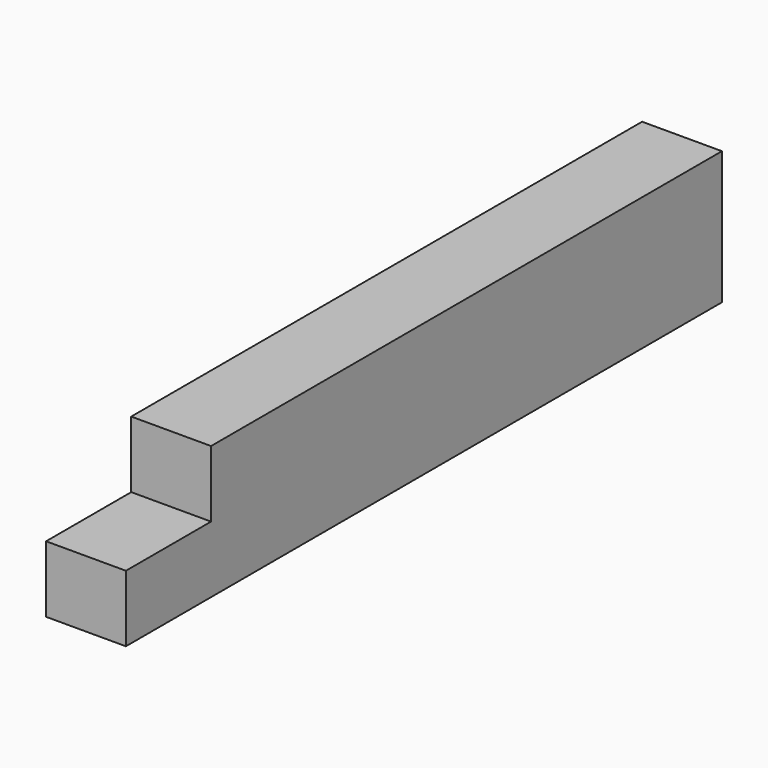
from build123d import *

# Parameters (mm, degrees)
SKETCH_W     = 15
SKETCH_H     = 140
PAD_DEPTH    = 12.5
SKETCH001_W  = 15
SKETCH001_H  = 120
PAD001_DEPTH = 12.5


with BuildPart() as part:
    # Sketch → Pad (new body)
    with BuildSketch(Plane.XY):
        with Locations((7.5, -70)):
            Rectangle(SKETCH_W, SKETCH_H)
    extrude(amount=PAD_DEPTH)

    # Sketch001 (on Face6 of Pad) → Pad001 (join)
    with BuildSketch(Plane.XY.offset(12.5)):
        with Locations((7.5, -60)):
            Rectangle(SKETCH001_W, SKETCH001_H)
    extrude(amount=PAD001_DEPTH)


solid = part.part
